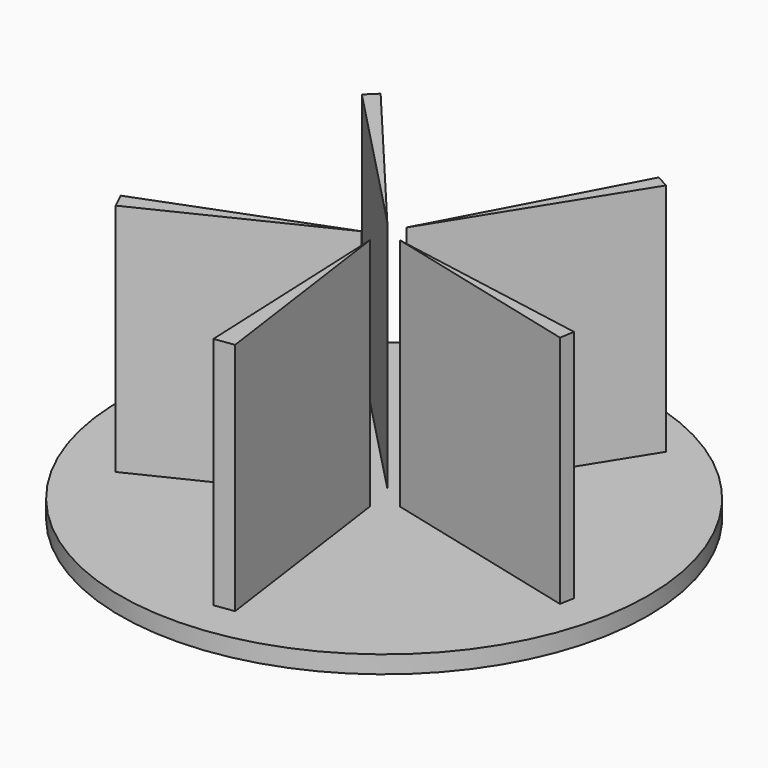
from build123d import *

# Parameters (mm, degrees)
F0_R     = 90.059663
F1_DEPTH = 6
F3_DEPTH = 80


with BuildPart() as f1:
    # F0 (on Top) → F1 (new body)
    with BuildSketch(Plane.XY):
        Circle(F0_R)
    extrude(amount=F1_DEPTH)

    # F2 (on face) → F3 (join)
    with BuildSketch(Plane.XY.offset(6)):
        Polygon((41.894139, 67.897459), (37.471054, 70.256495), (3.045908, 5.710936), align=None)
        Polygon((75.548055, -13.42053), (6.37266, -1.132054), (74.672942, -18.346794), align=None)
        Polygon((9.701488, -75.674326), (0, -6), (3.045908, -76.601053), align=None)
        Polygon((-54.17126, 58.228912), (-3.056724, 5.162987), (-50.558788, 61.708542), align=None)
        Polygon((-65.313227, -32.813866), (-4.909957, -3.448525), (-67.902333, -27.488185), align=None)
    extrude(amount=F3_DEPTH)


solid = f1.part
